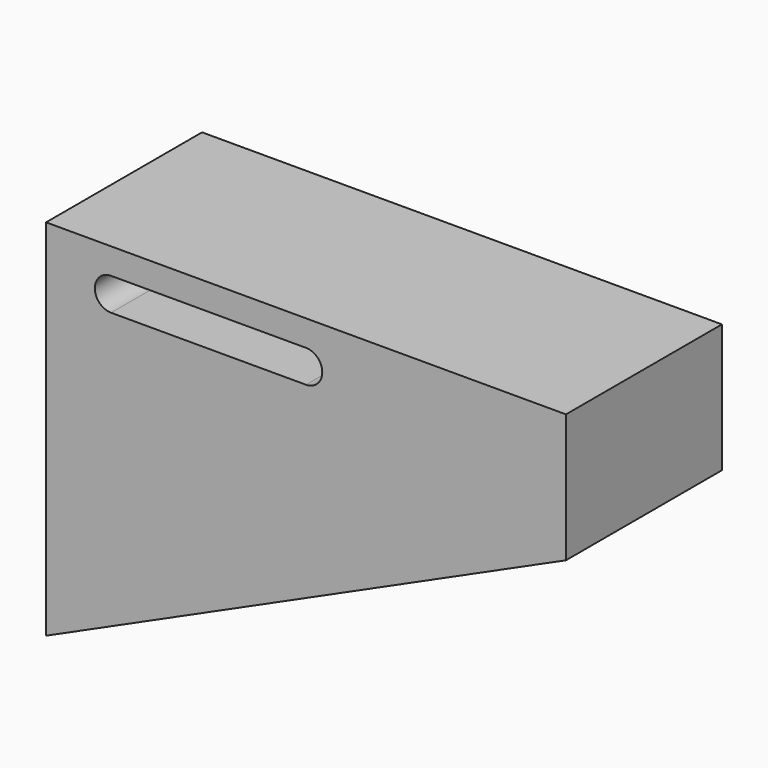
from build123d import *

# Parameters (mm, degrees)
F1_DEPTH = 19.05
F3_R     = 3.175
F4_DEPTH = 38.1
F6_DEPTH = 19.05
F8_D     = 8.8
F8_DEPTH = 12.7
F8_TIP   = 2.6437867237


with BuildPart() as f1:
    # F0 (on Front) → F1 (new body)
    with BuildSketch(Plane.XZ):
        Polygon((-20.6700884257, 7.7979226127), (-20.6700884257, -27.7620773873), (30.1299115743, -4.7548310105), (30.1299115743, 7.7979226127), align=None)
    extrude(amount=F1_DEPTH)

    # F3 (on face) → F4 (cut)
    with BuildSketch(Plane(origin=(-20.6700884257, 0, 0), x_dir=(0, -1, 0), z_dir=(-1, 0, 0))):
        with Locations((9.525, 3.6731153582)):
            Circle(F3_R)
    extrude(amount=-F4_DEPTH, mode=Mode.SUBTRACT)

    # F5 (on face) → F6 (cut, through all)
    with BuildSketch(Plane.XZ):
        with BuildLine():
            ThreePointArc((4.7299115743, 2.0856153582), (6.3174115743, 3.6731153582), (4.7299115743, 5.2606153582))
            Line((4.7299115743, 5.2606153582), (-14.3200884257, 5.2606153582))
            ThreePointArc((-14.3200884257, 5.2606153582), (-15.9075884257, 3.6731153582), (-14.3200884257, 2.0856153582))
            Line((-14.3200884257, 2.0856153582), (4.7299115743, 2.0856153582))
        make_face()
    extrude(amount=F6_DEPTH, mode=Mode.SUBTRACT)

    # F8
    with Locations(Plane(origin=(6.9151919719, 0, -15.2687438739), x_dir=(0.9109307781, 0, 0.4125592292), z_dir=(0.4125592292, 0, -0.9109307781))):
        with Locations((0, 9.525)):
            Hole(F8_D / 2, depth=F8_DEPTH)
            with Locations((0, 0, -(F8_DEPTH + F8_TIP / 2))):  # 118° drill point
                Cone(0, F8_D / 2, F8_TIP, mode=Mode.SUBTRACT)


solid = f1.part
